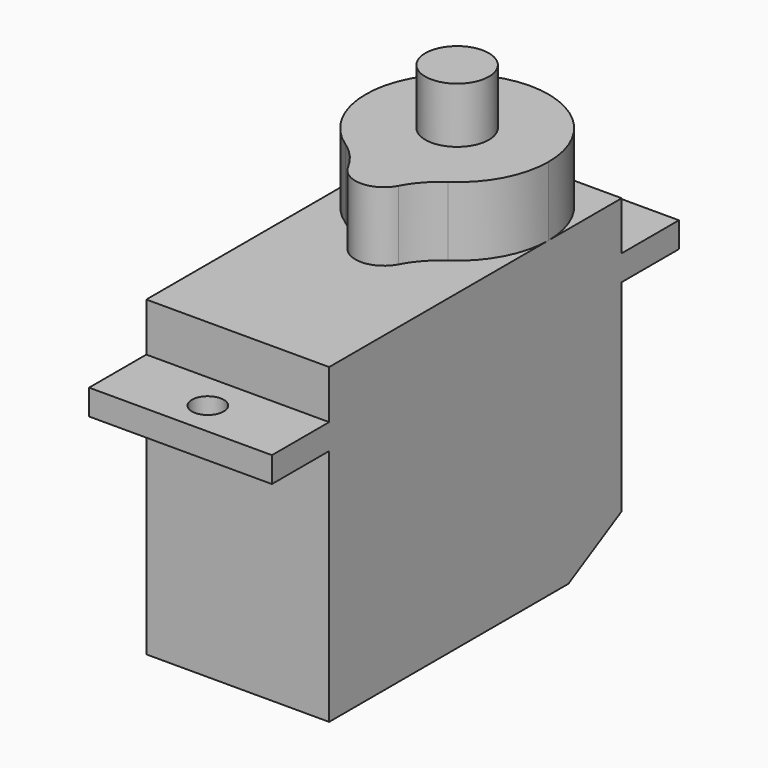
from build123d import *

# Parameters (mm, degrees)
F1_DEPTH = 11.5
F3_DEPTH = 4.35
F4_R     = 5
F5_R     = 1
F6_DEPTH = 25
F7_R     = 2
F8_DEPTH = 3.5


with BuildPart() as f1:
    # F0 (on Right) → F1 (new body)
    with BuildSketch(Plane.YZ):
        Polygon((0, 15), (0, 0), (18.8086195217, 0), (23, 2.3149361368), (23, 15), (27.5, 15), (27.5, 16.6), (23, 16.6), (23, 24), (5, 24), (5, 19.65), (0, 19.65), (0, 16.6), (-4.5, 16.6), (-4.5, 15), align=None)
    extrude(amount=F1_DEPTH)

    # F2 (on face) → F3 (cut, through all)
    with BuildSketch(Plane.XY.offset(24)):
        with BuildLine():
            Line((11.5, 5), (11.5, 17.25))
            ThreePointArc((11.5, 17.25), (10.4021463443, 13.8706458618), (7.5278141248, 11.7817391304))
            ThreePointArc((7.5278141248, 11.7817391304), (7.5444449594, 11.6413056534), (7.55, 11.5))
            ThreePointArc((7.55, 11.5), (5.6086943466, 9.7055550406), (3.9721858752, 11.7817391304))
            ThreePointArc((3.9721858752, 11.7817391304), (1.0978536557, 13.8706458618), (0, 17.25))
            Line((0, 17.25), (0, 5))
            Line((0, 5), (11.5, 5))
        make_face()
        with BuildLine():
            ThreePointArc((5.75, 23), (9.8158639918, 21.3158639918), (11.5, 17.25))
            Line((11.5, 17.25), (11.5, 23))
            Line((11.5, 23), (5.75, 23))
        make_face()
        with BuildLine():
            ThreePointArc((0, 17.25), (1.6841360082, 21.3158639918), (5.75, 23))
            Line((5.75, 23), (0, 23))
            Line((0, 23), (0, 17.25))
        make_face()
    extrude(amount=-F3_DEPTH, mode=Mode.SUBTRACT)

    # F4
    f4_edges = [f1.edges().sort_by_distance(p)[0] for p in [
        (7.527814, 11.781739, 21.825),
        (3.972186, 11.781739, 21.825),
    ]]
    fillet(f4_edges, radius=F4_R)

    # F5 (on face) → F6 (cut)
    with BuildSketch(Plane.XY.offset(16.6)):
        with BuildLine():
            ThreePointArc((5.75, 24.25), (6.4571067812, 24.5428932188), (6.75, 25.25))
            ThreePointArc((6.75, 25.25), (6.4571067812, 25.9571067812), (5.75, 26.25))
            Line((5.75, 26.25), (5.75, 24.25))
        make_face()
        with BuildLine():
            Line((5.75, 24.25), (5.75, 26.25))
            ThreePointArc((5.75, 26.25), (4.75, 25.25), (5.75, 24.25))
        make_face()
        with Locations((5.75, -2.35)):
            Circle(F5_R)
    extrude(amount=-F6_DEPTH, mode=Mode.SUBTRACT)

    # F7 (on face) → F8 (join)
    with BuildSketch(Plane.XY.offset(24)):
        with Locations((5.75, 17.25)):
            Circle(F7_R)
    extrude(amount=F8_DEPTH)


solid = f1.part
